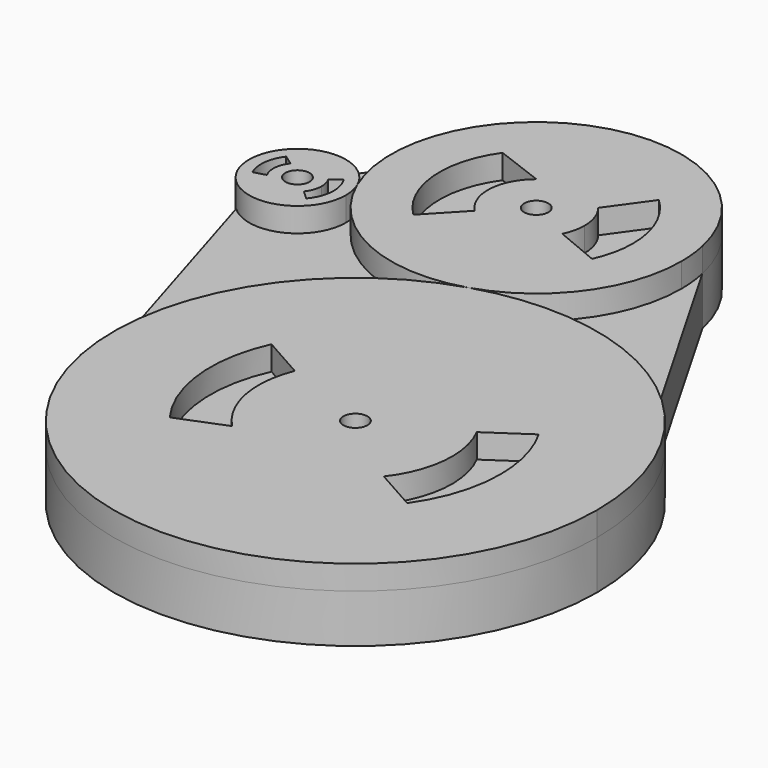
from build123d import *

# Parameters (mm, degrees)
F0_R     = 3.175
F1_DEPTH = 6.35
F2_DEPTH = 12.7


with BuildPart() as f1:
    # F0 (on Top) → F1 (new body)
    with BuildSketch(Plane.XY):
        with BuildLine():
            ThreePointArc((-35.7529609464, 58.1667364851), (-37.5186970008, 44.7329056435), (-34.4714793594, 31.5306293419))
            ThreePointArc((-34.4714793594, 31.5306293419), (-15.4180520019, 11.9655799049), (11.8330852799, 10.1767897043))
            ThreePointArc((11.8330852799, 10.1767897043), (31.2128455927, 23.9669025865), (38.6372855282, 46.5638053551))
            ThreePointArc((38.6372855282, 46.5638053551), (38.4268711154, 50.5624681355), (37.7979519832, 54.5169641821))
            ThreePointArc((37.7979519832, 54.5169641821), (2.4255752837, 84.6169834326), (-35.7529609464, 58.1667364851))
        make_face()
        with BuildLine():
            ThreePointArc((-20.1295190644, 61.3300908707), (-1.8957653213, 71.8470065678), (18.0089300704, 65.0002268351))
            ThreePointArc((18.0089300704, 65.0002268351), (23.8711640247, 56.5982517431), (25.9372855282, 46.5638053551))
            ThreePointArc((25.9372855282, 46.5638053551), (25.3543094725, 41.1531378778), (23.6321420204, 35.9908396591))
            ThreePointArc((23.6321420204, 35.9908396591), (5.1693034125, 21.589730591), (-17.2299057254, 28.4120309251))
            ThreePointArc((-17.2299057254, 28.4120309251), (-24.7647435766, 44.3350561147), (-20.1295190644, 61.3300908707))
        make_face(mode=Mode.SUBTRACT)
        with BuildLine():
            ThreePointArc((11.903429337, 40.8980507788), (12.8993247284, 43.6534811782), (13.2372855282, 46.5638053551))
            ThreePointArc((13.2372855282, 46.5638053551), (12.5244421894, 50.7588113362), (10.4659351059, 54.482891007))
            ThreePointArc((10.4659351059, 54.482891007), (1.962138395, 59.1836228778), (-7.3756989197, 56.4973181842))
            ThreePointArc((-7.3756989197, 56.4973181842), (-12.1401878613, 47.3198929538), (-8.5002807579, 37.6412274976))
            ThreePointArc((-8.5002807579, 37.6412274976), (2.5391078957, 34.022565097), (11.903429337, 40.8980507788))
        make_face()
        with Locations((0.5372855282, 46.5638053551)):
            Circle(F0_R, mode=Mode.SUBTRACT)
        with BuildLine():
            Line((23.6321420204, 35.9908396591), (11.903429337, 40.8980507788))
            ThreePointArc((11.903429337, 40.8980507788), (2.5391078957, 34.022565097), (-8.5002807579, 37.6412274976))
            Line((-8.5002807579, 37.6412274976), (-17.2299057254, 28.4120309251))
            ThreePointArc((-17.2299057254, 28.4120309251), (5.1693034125, 21.589730591), (23.6321420204, 35.9908396591))
        make_face()
        with BuildLine():
            ThreePointArc((-7.3756989197, 56.4973181842), (1.962138395, 59.1836228778), (10.4659351059, 54.482891007))
            Line((10.4659351059, 54.482891007), (18.0089300704, 65.0002268351))
            ThreePointArc((18.0089300704, 65.0002268351), (-1.8957653213, 71.8470065678), (-20.1295190644, 61.3300908707))
            Line((-20.1295190644, 61.3300908707), (-7.3756989197, 56.4973181842))
        make_face()
    extrude(amount=F1_DEPTH)


with BuildPart() as f1b:
    # F0 (on Top) → F1, piece 2 (new body)
    with BuildSketch(Plane.XY):
        with BuildLine():
            ThreePointArc((11.8330852799, 10.1767897043), (-22.0866208351, -15.1114071818), (-32.5907435662, -56.0955842544))
            ThreePointArc((-32.5907435662, -56.0955842544), (33.4758637329, -113.9057460769), (94.1594181419, -50.4682363982))
            ThreePointArc((94.1594181419, -50.4682363982), (87.5779451985, -22.3163043559), (69.1978030958, 0))
            ThreePointArc((69.1978030958, 0), (41.7514428259, 12.0554950037), (11.8330852799, 10.1767897043))
        make_face()
        with BuildLine():
            ThreePointArc((-4.0126707213, -34.6740522198), (28.9907510806, -12.4047952737), (63.8163429852, -31.700489199))
            ThreePointArc((63.8163429852, -31.700489199), (67.5029307088, -40.7643412146), (68.7594181419, -50.4682363982))
            ThreePointArc((68.7594181419, -50.4682363982), (66.9804977497, -61.9742859429), (61.8098550907, -72.4058816206))
            ThreePointArc((61.8098550907, -72.4058816206), (31.0792604542, -88.5659231053), (0, -73.0870356413))
            ThreePointArc((0, -73.0870356413), (-7.2343910586, -54.4266734982), (-4.0126707213, -34.6740522198))
        make_face(mode=Mode.SUBTRACT)
        with BuildLine():
            ThreePointArc((7.1136108793, -40.9416966092), (29.5130488205, -25.0941189282), (53.2502621228, -38.8573032647))
            Line((53.2502621228, -38.8573032647), (63.8163429852, -31.700489199))
            ThreePointArc((63.8163429852, -31.700489199), (28.9907510806, -12.4047952737), (-4.0126707213, -34.6740522198))
            Line((-4.0126707213, -34.6740522198), (7.1136108793, -40.9416966092))
        make_face()
        with BuildLine():
            ThreePointArc((50.6561773891, -66.1299610673), (54.6706414019, -58.7520252391), (56.0594181419, -50.4682363982))
            ThreePointArc((56.0594181419, -50.4682363982), (55.3471421876, -44.4952738634), (53.2502621228, -38.8573032647))
            ThreePointArc((53.2502621228, -38.8573032647), (29.5130488205, -25.0941189282), (7.1136108793, -40.9416966092))
            ThreePointArc((7.1136108793, -40.9416966092), (5.7269074554, -55.3190003449), (12.402800821, -68.1276793112))
            ThreePointArc((12.402800821, -68.1276793112), (31.9840852799, -75.8336706932), (50.6561773891, -66.1299610673))
        make_face()
        with Locations((30.6594181419, -50.4682363982)):
            Circle(F0_R, mode=Mode.SUBTRACT)
        with BuildLine():
            Line((61.8098550907, -72.4058816206), (50.6561773891, -66.1299610673))
            ThreePointArc((50.6561773891, -66.1299610673), (31.9840852799, -75.8336706932), (12.402800821, -68.1276793112))
            Line((12.402800821, -68.1276793112), (0, -73.0870356413))
            ThreePointArc((0, -73.0870356413), (31.0792604542, -88.5659231053), (61.8098550907, -72.4058816206))
        make_face()
    extrude(amount=F1_DEPTH)


with BuildPart() as f1c:
    # F0 (on Top) → F1, piece 3 (new body)
    with BuildSketch(Plane.XY):
        with BuildLine():
            ThreePointArc((-34.4714793594, 31.5306293419), (-40.7430017129, 38.0152615062), (-49.7382382473, 38.6994885348))
            ThreePointArc((-49.7382382473, 38.6994885348), (-58.4931063906, 29.4720544391), (-54.8573955894, 17.2829255462))
            ThreePointArc((-54.8573955894, 17.2829255462), (-41.1115233854, 14.8579391921), (-33.4410682097, 26.519571962))
            ThreePointArc((-33.4410682097, 26.519571962), (-33.7013379393, 29.0775224698), (-34.4714793594, 31.5306293419))
        make_face()
        with BuildLine():
            ThreePointArc((-53.7238418013, 32.2838732777), (-45.7443444611, 36.0363064475), (-38.104844935, 31.6327647492))
            ThreePointArc((-38.104844935, 31.6327647492), (-36.9958330654, 29.1823335274), (-36.6160682097, 26.519571962))
            ThreePointArc((-36.6160682097, 26.519571962), (-37.2068059127, 23.2173632758), (-38.9057442638, 20.3247586155))
            ThreePointArc((-38.9057442638, 20.3247586155), (-47.460328308, 17.086376438), (-54.7982782434, 22.5473761672))
            ThreePointArc((-54.7982782434, 22.5473761672), (-55.608597509, 27.5643274198), (-53.7238418013, 32.2838732777))
        make_face(mode=Mode.SUBTRACT)
        with BuildLine():
            ThreePointArc((-41.2321439004, 22.4915498512), (-40.1621816343, 24.3805499149), (-39.7910682097, 26.519571962))
            ThreePointArc((-39.7910682097, 26.519571962), (-39.9974305359, 28.1252544127), (-40.6031047869, 29.6265739136))
            ThreePointArc((-40.6031047869, 29.6265739136), (-45.623771042, 32.8484663078), (-51.100991484, 30.484626957))
            ThreePointArc((-51.100991484, 30.484626957), (-52.4685502322, 27.0538670627), (-51.6956428568, 23.4423653569))
            ThreePointArc((-51.6956428568, 23.4423653569), (-46.7157234291, 20.1956276723), (-41.2321439004, 22.4915498512))
        make_face()
        with Locations((-46.1410682097, 26.519571962)):
            Circle(F0_R, mode=Mode.SUBTRACT)
        with BuildLine():
            Line((-38.9057442638, 20.3247586155), (-41.2321439004, 22.4915498512))
            ThreePointArc((-41.2321439004, 22.4915498512), (-46.7157234291, 20.1956276723), (-51.6956428568, 23.4423653569))
            Line((-51.6956428568, 23.4423653569), (-54.7982782434, 22.5473761672))
            ThreePointArc((-54.7982782434, 22.5473761672), (-47.460328308, 17.086376438), (-38.9057442638, 20.3247586155))
        make_face()
        with BuildLine():
            ThreePointArc((-51.100991484, 30.484626957), (-45.623771042, 32.8484663078), (-40.6031047869, 29.6265739136))
            Line((-40.6031047869, 29.6265739136), (-38.104844935, 31.6327647492))
            ThreePointArc((-38.104844935, 31.6327647492), (-45.7443444611, 36.0363064475), (-53.7238418013, 32.2838732777))
            Line((-53.7238418013, 32.2838732777), (-51.100991484, 30.484626957))
        make_face()
    extrude(amount=F1_DEPTH)


with BuildPart() as f2:
    # F0 (on Top) → F2 (new body)
    with BuildSketch(Plane.XY):
        with BuildLine():
            ThreePointArc((-34.4714793594, 31.5306293419), (-40.7430017129, 38.0152615062), (-49.7382382473, 38.6994885348))
            ThreePointArc((-49.7382382473, 38.6994885348), (-58.4931063906, 29.4720544391), (-54.8573955894, 17.2829255462))
            ThreePointArc((-54.8573955894, 17.2829255462), (-41.1115233854, 14.8579391921), (-33.4410682097, 26.519571962))
            ThreePointArc((-33.4410682097, 26.519571962), (-33.7013379393, 29.0775224698), (-34.4714793594, 31.5306293419))
        make_face()
        with BuildLine():
            ThreePointArc((-53.7238418013, 32.2838732777), (-45.7443444611, 36.0363064475), (-38.104844935, 31.6327647492))
            ThreePointArc((-38.104844935, 31.6327647492), (-36.9958330654, 29.1823335274), (-36.6160682097, 26.519571962))
            ThreePointArc((-36.6160682097, 26.519571962), (-37.2068059127, 23.2173632758), (-38.9057442638, 20.3247586155))
            ThreePointArc((-38.9057442638, 20.3247586155), (-47.460328308, 17.086376438), (-54.7982782434, 22.5473761672))
            ThreePointArc((-54.7982782434, 22.5473761672), (-55.608597509, 27.5643274198), (-53.7238418013, 32.2838732777))
        make_face(mode=Mode.SUBTRACT)
        with BuildLine():
            Line((-35.7529609464, 58.1667364851), (-49.7382382473, 38.6994885348))
            ThreePointArc((-49.7382382473, 38.6994885348), (-40.7430017129, 38.0152615062), (-34.4714793594, 31.5306293419))
            ThreePointArc((-34.4714793594, 31.5306293419), (-37.5186970008, 44.7329056435), (-35.7529609464, 58.1667364851))
        make_face()
        with BuildLine():
            ThreePointArc((-33.4410682097, 26.519571962), (-41.1115233854, 14.8579391921), (-54.8573955894, 17.2829255462))
            Line((-54.8573955894, 17.2829255462), (-32.5907435662, -56.0955842544))
            ThreePointArc((-32.5907435662, -56.0955842544), (-22.0866208351, -15.1114071818), (11.8330852799, 10.1767897043))
            ThreePointArc((11.8330852799, 10.1767897043), (-15.4180520019, 11.9655799049), (-34.4714793594, 31.5306293419))
            ThreePointArc((-34.4714793594, 31.5306293419), (-33.7013379393, 29.0775224698), (-33.4410682097, 26.519571962))
        make_face()
        with BuildLine():
            ThreePointArc((-35.7529609464, 58.1667364851), (-37.5186970008, 44.7329056435), (-34.4714793594, 31.5306293419))
            ThreePointArc((-34.4714793594, 31.5306293419), (-15.4180520019, 11.9655799049), (11.8330852799, 10.1767897043))
            ThreePointArc((11.8330852799, 10.1767897043), (31.2128455927, 23.9669025865), (38.6372855282, 46.5638053551))
            ThreePointArc((38.6372855282, 46.5638053551), (38.4268711154, 50.5624681355), (37.7979519832, 54.5169641821))
            ThreePointArc((37.7979519832, 54.5169641821), (2.4255752837, 84.6169834326), (-35.7529609464, 58.1667364851))
        make_face()
        with BuildLine():
            ThreePointArc((-20.1295190644, 61.3300908707), (-1.8957653213, 71.8470065678), (18.0089300704, 65.0002268351))
            ThreePointArc((18.0089300704, 65.0002268351), (23.8711640247, 56.5982517431), (25.9372855282, 46.5638053551))
            ThreePointArc((25.9372855282, 46.5638053551), (25.3543094725, 41.1531378778), (23.6321420204, 35.9908396591))
            ThreePointArc((23.6321420204, 35.9908396591), (5.1693034125, 21.589730591), (-17.2299057254, 28.4120309251))
            ThreePointArc((-17.2299057254, 28.4120309251), (-24.7647435766, 44.3350561147), (-20.1295190644, 61.3300908707))
        make_face(mode=Mode.SUBTRACT)
        with BuildLine():
            ThreePointArc((11.8330852799, 10.1767897043), (-22.0866208351, -15.1114071818), (-32.5907435662, -56.0955842544))
            ThreePointArc((-32.5907435662, -56.0955842544), (33.4758637329, -113.9057460769), (94.1594181419, -50.4682363982))
            ThreePointArc((94.1594181419, -50.4682363982), (87.5779451985, -22.3163043559), (69.1978030958, 0))
            ThreePointArc((69.1978030958, 0), (41.7514428259, 12.0554950037), (11.8330852799, 10.1767897043))
        make_face()
        with BuildLine():
            ThreePointArc((-4.0126707213, -34.6740522198), (28.9907510806, -12.4047952737), (63.8163429852, -31.700489199))
            ThreePointArc((63.8163429852, -31.700489199), (67.5029307088, -40.7643412146), (68.7594181419, -50.4682363982))
            ThreePointArc((68.7594181419, -50.4682363982), (66.9804977497, -61.9742859429), (61.8098550907, -72.4058816206))
            ThreePointArc((61.8098550907, -72.4058816206), (31.0792604542, -88.5659231053), (0, -73.0870356413))
            ThreePointArc((0, -73.0870356413), (-7.2343910586, -54.4266734982), (-4.0126707213, -34.6740522198))
        make_face(mode=Mode.SUBTRACT)
        with BuildLine():
            ThreePointArc((38.6372855282, 46.5638053551), (31.2128455927, 23.9669025865), (11.8330852799, 10.1767897043))
            ThreePointArc((11.8330852799, 10.1767897043), (41.7514428259, 12.0554950037), (69.1978030958, 0))
            Line((69.1978030958, 0), (37.7979519832, 54.5169641821))
            ThreePointArc((37.7979519832, 54.5169641821), (38.4268711154, 50.5624681355), (38.6372855282, 46.5638053551))
        make_face()
        with BuildLine():
            Line((61.8098550907, -72.4058816206), (50.6561773891, -66.1299610673))
            ThreePointArc((50.6561773891, -66.1299610673), (31.9840852799, -75.8336706932), (12.402800821, -68.1276793112))
            Line((12.402800821, -68.1276793112), (0, -73.0870356413))
            ThreePointArc((0, -73.0870356413), (31.0792604542, -88.5659231053), (61.8098550907, -72.4058816206))
        make_face()
        with BuildLine():
            ThreePointArc((50.6561773891, -66.1299610673), (54.6706414019, -58.7520252391), (56.0594181419, -50.4682363982))
            ThreePointArc((56.0594181419, -50.4682363982), (55.3471421876, -44.4952738634), (53.2502621228, -38.8573032647))
            ThreePointArc((53.2502621228, -38.8573032647), (29.5130488205, -25.0941189282), (7.1136108793, -40.9416966092))
            ThreePointArc((7.1136108793, -40.9416966092), (5.7269074554, -55.3190003449), (12.402800821, -68.1276793112))
            ThreePointArc((12.402800821, -68.1276793112), (31.9840852799, -75.8336706932), (50.6561773891, -66.1299610673))
        make_face()
        with Locations((30.6594181419, -50.4682363982)):
            Circle(F0_R, mode=Mode.SUBTRACT)
        with BuildLine():
            ThreePointArc((7.1136108793, -40.9416966092), (29.5130488205, -25.0941189282), (53.2502621228, -38.8573032647))
            Line((53.2502621228, -38.8573032647), (63.8163429852, -31.700489199))
            ThreePointArc((63.8163429852, -31.700489199), (28.9907510806, -12.4047952737), (-4.0126707213, -34.6740522198))
            Line((-4.0126707213, -34.6740522198), (7.1136108793, -40.9416966092))
        make_face()
        with BuildLine():
            ThreePointArc((53.2502621228, -38.8573032647), (55.3471421876, -44.4952738634), (56.0594181419, -50.4682363982))
            ThreePointArc((56.0594181419, -50.4682363982), (54.6706414019, -58.7520252391), (50.6561773891, -66.1299610673))
            Line((50.6561773891, -66.1299610673), (61.8098550907, -72.4058816206))
            ThreePointArc((61.8098550907, -72.4058816206), (66.9804977497, -61.9742859429), (68.7594181419, -50.4682363982))
            ThreePointArc((68.7594181419, -50.4682363982), (67.5029307088, -40.7643412146), (63.8163429852, -31.700489199))
            Line((63.8163429852, -31.700489199), (53.2502621228, -38.8573032647))
        make_face()
        with BuildLine():
            ThreePointArc((12.402800821, -68.1276793112), (5.7269074554, -55.3190003449), (7.1136108793, -40.9416966092))
            Line((7.1136108793, -40.9416966092), (-4.0126707213, -34.6740522198))
            ThreePointArc((-4.0126707213, -34.6740522198), (-7.2343910586, -54.4266734982), (0, -73.0870356413))
            Line((0, -73.0870356413), (12.402800821, -68.1276793112))
        make_face()
        with BuildLine():
            Line((23.6321420204, 35.9908396591), (11.903429337, 40.8980507788))
            ThreePointArc((11.903429337, 40.8980507788), (2.5391078957, 34.022565097), (-8.5002807579, 37.6412274976))
            Line((-8.5002807579, 37.6412274976), (-17.2299057254, 28.4120309251))
            ThreePointArc((-17.2299057254, 28.4120309251), (5.1693034125, 21.589730591), (23.6321420204, 35.9908396591))
        make_face()
        with BuildLine():
            ThreePointArc((11.903429337, 40.8980507788), (12.8993247284, 43.6534811782), (13.2372855282, 46.5638053551))
            ThreePointArc((13.2372855282, 46.5638053551), (12.5244421894, 50.7588113362), (10.4659351059, 54.482891007))
            ThreePointArc((10.4659351059, 54.482891007), (1.962138395, 59.1836228778), (-7.3756989197, 56.4973181842))
            ThreePointArc((-7.3756989197, 56.4973181842), (-12.1401878613, 47.3198929538), (-8.5002807579, 37.6412274976))
            ThreePointArc((-8.5002807579, 37.6412274976), (2.5391078957, 34.022565097), (11.903429337, 40.8980507788))
        make_face()
        with Locations((0.5372855282, 46.5638053551)):
            Circle(F0_R, mode=Mode.SUBTRACT)
        with BuildLine():
            ThreePointArc((-7.3756989197, 56.4973181842), (1.962138395, 59.1836228778), (10.4659351059, 54.482891007))
            Line((10.4659351059, 54.482891007), (18.0089300704, 65.0002268351))
            ThreePointArc((18.0089300704, 65.0002268351), (-1.8957653213, 71.8470065678), (-20.1295190644, 61.3300908707))
            Line((-20.1295190644, 61.3300908707), (-7.3756989197, 56.4973181842))
        make_face()
        with BuildLine():
            ThreePointArc((10.4659351059, 54.482891007), (12.5244421894, 50.7588113362), (13.2372855282, 46.5638053551))
            ThreePointArc((13.2372855282, 46.5638053551), (12.8993247284, 43.6534811782), (11.903429337, 40.8980507788))
            Line((11.903429337, 40.8980507788), (23.6321420204, 35.9908396591))
            ThreePointArc((23.6321420204, 35.9908396591), (25.3543094725, 41.1531378778), (25.9372855282, 46.5638053551))
            ThreePointArc((25.9372855282, 46.5638053551), (23.8711640247, 56.5982517431), (18.0089300704, 65.0002268351))
            Line((18.0089300704, 65.0002268351), (10.4659351059, 54.482891007))
        make_face()
        with BuildLine():
            ThreePointArc((-8.5002807579, 37.6412274976), (-12.1401878613, 47.3198929538), (-7.3756989197, 56.4973181842))
            Line((-7.3756989197, 56.4973181842), (-20.1295190644, 61.3300908707))
            ThreePointArc((-20.1295190644, 61.3300908707), (-24.7647435766, 44.3350561147), (-17.2299057254, 28.4120309251))
            Line((-17.2299057254, 28.4120309251), (-8.5002807579, 37.6412274976))
        make_face()
        with BuildLine():
            ThreePointArc((-51.100991484, 30.484626957), (-45.623771042, 32.8484663078), (-40.6031047869, 29.6265739136))
            Line((-40.6031047869, 29.6265739136), (-38.104844935, 31.6327647492))
            ThreePointArc((-38.104844935, 31.6327647492), (-45.7443444611, 36.0363064475), (-53.7238418013, 32.2838732777))
            Line((-53.7238418013, 32.2838732777), (-51.100991484, 30.484626957))
        make_face()
        with BuildLine():
            ThreePointArc((-40.6031047869, 29.6265739136), (-39.9974305359, 28.1252544127), (-39.7910682097, 26.519571962))
            ThreePointArc((-39.7910682097, 26.519571962), (-40.1621816343, 24.3805499149), (-41.2321439004, 22.4915498512))
            Line((-41.2321439004, 22.4915498512), (-38.9057442638, 20.3247586155))
            ThreePointArc((-38.9057442638, 20.3247586155), (-37.2068059127, 23.2173632758), (-36.6160682097, 26.519571962))
            ThreePointArc((-36.6160682097, 26.519571962), (-36.9958330654, 29.1823335274), (-38.104844935, 31.6327647492))
            Line((-38.104844935, 31.6327647492), (-40.6031047869, 29.6265739136))
        make_face()
        with BuildLine():
            ThreePointArc((-51.6956428568, 23.4423653569), (-52.4685502322, 27.0538670627), (-51.100991484, 30.484626957))
            Line((-51.100991484, 30.484626957), (-53.7238418013, 32.2838732777))
            ThreePointArc((-53.7238418013, 32.2838732777), (-55.608597509, 27.5643274198), (-54.7982782434, 22.5473761672))
            Line((-54.7982782434, 22.5473761672), (-51.6956428568, 23.4423653569))
        make_face()
        with BuildLine():
            Line((-38.9057442638, 20.3247586155), (-41.2321439004, 22.4915498512))
            ThreePointArc((-41.2321439004, 22.4915498512), (-46.7157234291, 20.1956276723), (-51.6956428568, 23.4423653569))
            Line((-51.6956428568, 23.4423653569), (-54.7982782434, 22.5473761672))
            ThreePointArc((-54.7982782434, 22.5473761672), (-47.460328308, 17.086376438), (-38.9057442638, 20.3247586155))
        make_face()
        with BuildLine():
            ThreePointArc((-41.2321439004, 22.4915498512), (-40.1621816343, 24.3805499149), (-39.7910682097, 26.519571962))
            ThreePointArc((-39.7910682097, 26.519571962), (-39.9974305359, 28.1252544127), (-40.6031047869, 29.6265739136))
            ThreePointArc((-40.6031047869, 29.6265739136), (-45.623771042, 32.8484663078), (-51.100991484, 30.484626957))
            ThreePointArc((-51.100991484, 30.484626957), (-52.4685502322, 27.0538670627), (-51.6956428568, 23.4423653569))
            ThreePointArc((-51.6956428568, 23.4423653569), (-46.7157234291, 20.1956276723), (-41.2321439004, 22.4915498512))
        make_face()
        with Locations((-46.1410682097, 26.519571962)):
            Circle(F0_R, mode=Mode.SUBTRACT)
    extrude(amount=-F2_DEPTH)


solid = Compound([f1.part, f1b.part, f1c.part, f2.part])
